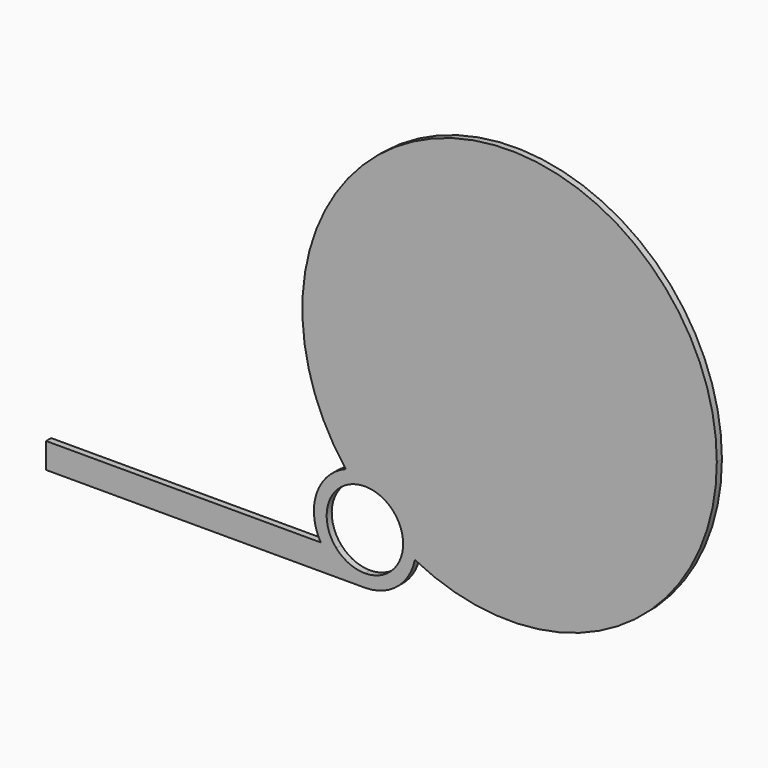
from build123d import *

# Parameters (mm, degrees)
F1_DEPTH = 1


with BuildPart() as f1:
    # F0 (on Front) → F1 (new body)
    with BuildSketch(Plane.XZ):
        with BuildLine():
            ThreePointArc((-14.8566900459, -28.905514368), (16.9323296316, -27.7406959762), (32.5, 0))
            ThreePointArc((32.5, 0), (-10.5130507391, 30.7526545872), (-25.6985085636, -19.8956441868))
            ThreePointArc((-25.6985085636, -19.8956441868), (-18.2250702901, -20.6769291866), (-14.6961524227, -27.3108891325))
            ThreePointArc((-14.6961524227, -27.3108891325), (-14.7363880099, -28.1122320632), (-14.8566900459, -28.905514368))
        make_face()
        with BuildLine():
            ThreePointArc((-14.6961524227, -27.3108891325), (-18.2250702901, -20.6769291866), (-25.6985085636, -19.8956441868))
            ThreePointArc((-25.6985085636, -19.8956441868), (-25.0312995122, -20.7288215953), (-24.3370897754, -21.5396393021))
            ThreePointArc((-24.3370897754, -21.5396393021), (-19.0799129475, -22.5231117715), (-16.6961524227, -27.3108891325))
            ThreePointArc((-16.6961524227, -27.3108891325), (-16.7026347711, -27.5897191161), (-16.7220678093, -27.8679466086))
            ThreePointArc((-16.7220678093, -27.8679466086), (-15.7978993424, -28.4020488058), (-14.8566900459, -28.905514368))
            ThreePointArc((-14.8566900459, -28.905514368), (-14.7363880099, -28.1122320632), (-14.6961524227, -27.3108891325))
        make_face()
        with BuildLine():
            ThreePointArc((-24.3370897754, -21.5396393021), (-25.0312995122, -20.7288215953), (-25.6985085636, -19.8956441868))
            ThreePointArc((-25.6985085636, -19.8956441868), (-30.2612668731, -24.7091506075), (-29.624355653, -31.3108891325))
            Line((-29.624355653, -31.3108891325), (-27.1682883777, -31.3108891325))
            ThreePointArc((-27.1682883777, -31.3108891325), (-28.4591158208, -25.6410828946), (-24.3370897754, -21.5396393021))
        make_face()
        with BuildLine():
            ThreePointArc((-22.6961524227, -35.3108891325), (-17.6343840501, -33.5059275458), (-14.8566900459, -28.905514368))
            ThreePointArc((-14.8566900459, -28.905514368), (-15.7978993424, -28.4020488058), (-16.7220678093, -27.8679466086))
            ThreePointArc((-16.7220678093, -27.8679466086), (-18.6552580203, -31.7461086793), (-22.6961524227, -33.3108891325))
            Line((-22.6961524227, -33.3108891325), (-22.6961524227, -35.3108891325))
        make_face()
        with BuildLine():
            ThreePointArc((-22.6961524227, -35.3108891325), (-26.6961524227, -34.2390923627), (-29.624355653, -31.3108891325))
            Line((-29.624355653, -31.3108891325), (-72.6961524227, -31.3108891325))
            Line((-72.6961524227, -31.3108891325), (-72.6961524227, -35.3108891325))
            Line((-72.6961524227, -35.3108891325), (-22.6961524227, -35.3108891325))
        make_face()
        with BuildLine():
            Line((-27.1682883777, -31.3108891325), (-29.624355653, -31.3108891325))
            ThreePointArc((-29.624355653, -31.3108891325), (-26.6961524227, -34.2390923627), (-22.6961524227, -35.3108891325))
            Line((-22.6961524227, -35.3108891325), (-22.6961524227, -33.3108891325))
            ThreePointArc((-22.6961524227, -33.3108891325), (-25.1456421655, -32.7881147075), (-27.1682883777, -31.3108891325))
        make_face()
    extrude(amount=F1_DEPTH)


solid = f1.part
